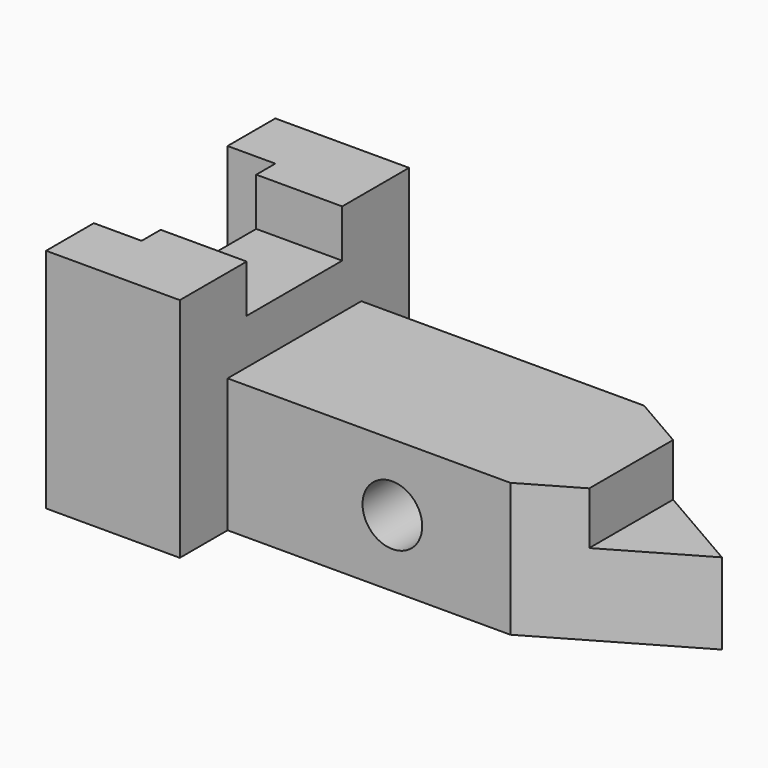
from build123d import *

# Parameters (mm, degrees)
F0_W      = 60.96
F0_H      = 48.26
F1_DEPTH  = 28.448
F2_W      = 25.4
F2_H      = 10.16
F3_DEPTH  = 50.8
F5_DEPTH  = 10.16
F6_W      = 35.56
F6_H      = 28.448
F7_DEPTH  = 90.932
F9_DEPTH  = 50.8
F11_DEPTH = 11.176
F12_R     = 6.35
F13_DEPTH = 35.814


with BuildPart() as f1:
    # F0 (on Right) → F1 (new body)
    with BuildSketch(Plane.YZ):
        with Locations((-2.3099333048, 23.8836441065)):
            Rectangle(F0_W, F0_H)
        with Locations((-2.3099333048, 23.8836441065)):
            Rectangle(F0_W, F0_H)
    extrude(amount=F1_DEPTH)

    # F2 (on face) → F3 (cut)
    with BuildSketch(Plane.YZ.offset(28.448)):
        with Locations((-2.3099333048, 42.9336441065)):
            Rectangle(F2_W, F2_H)
    extrude(amount=-F3_DEPTH, mode=Mode.SUBTRACT)

    # F4 (on face) → F5 (cut)
    with BuildSketch(Plane(origin=(0, 0, 0), x_dir=(0, -1, 0), z_dir=(-1, 0, 0))):
        Polygon((-10.3900666952, 48.0136441065), (-15.4700666952, 48.0136441065), (-15.4700666952, -0.2463558935), (20.0899333048, -0.2463558935), (20.0899333048, 48.0136441065), (15.0099333048, 48.0136441065), (15.0099333048, 37.8536441065), (-10.3900666952, 37.8536441065), align=None)
    extrude(amount=-F5_DEPTH, mode=Mode.SUBTRACT)

    # F6 (on face) → F7 (join)
    with BuildSketch(Plane.YZ.offset(28.448)):
        with Locations((-2.3099333048, 13.9776441065)):
            Rectangle(F6_W, F6_H)
    extrude(amount=F7_DEPTH)

    # F8 (on face) → F9 (cut)
    with BuildSketch(Plane.XY.offset(28.2016441065)):
        Polygon((88.5841366414, 15.4700666952), (119.38, -2.3099333048), (119.38, 15.4700666952), align=None)
        Polygon((119.38, -20.0899333048), (119.38, -2.3099333048), (88.5841366414, -20.0899333048), align=None)
    extrude(amount=-F9_DEPTH, mode=Mode.SUBTRACT)

    # F10 (on face) → F11 (cut)
    with BuildSketch(Plane.XY.offset(28.2016441065)):
        Polygon((100.076, -2.3099333048), (119.38, -2.3099333048), (100.076, 8.8352362916), align=None)
        Polygon((100.076, -13.4551029012), (119.38, -2.3099333048), (100.076, -2.3099333048), align=None)
    extrude(amount=-F11_DEPTH, mode=Mode.SUBTRACT)

    # F12 (on face) → F13 (cut)
    with BuildSketch(Plane.XZ.offset(20.0899333048)):
        with Locations((63.5, 13.9776441065)):
            Circle(F12_R)
    extrude(amount=-F13_DEPTH, mode=Mode.SUBTRACT)


solid = f1.part
